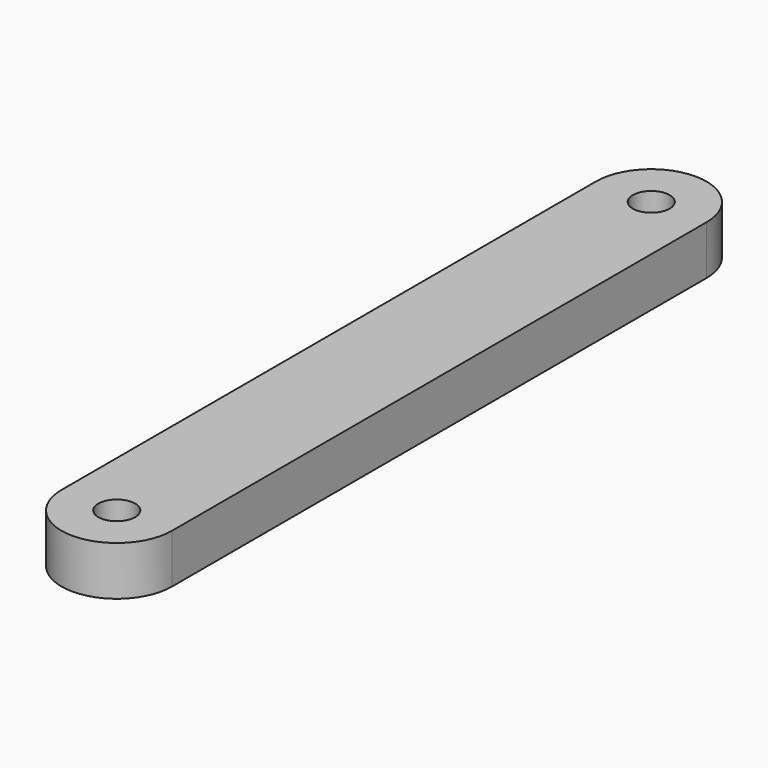
from build123d import *

# Parameters (mm, degrees)
SKETCH_R      = 1.5
PAD_DEPTH     = 4
SKETCH001_R   = 3
SKETCH001_R_2 = 1.5
POCKET_DEPTH  = 1.5


with BuildPart() as part:
    # Sketch → Pad (new body)
    with BuildSketch(Plane.XY):
        with BuildLine():
            ThreePointArc((4.5, 27.2), (0, 31.7), (-4.5, 27.2))
            Line((-4.5, -27.2), (-4.5, 27.2))
            ThreePointArc((-4.5, -27.2), (0, -31.7), (4.5, -27.2))
            Line((4.5, 27.2), (4.5, -27.2))
        make_face()
        with Locations((0, 27.2)):
            Circle(SKETCH_R, mode=Mode.SUBTRACT)
        with Locations((0, -27.2)):
            Circle(SKETCH_R, mode=Mode.SUBTRACT)
    extrude(amount=PAD_DEPTH)

    # Sketch001 → Pocket (cut, symmetric)
    with BuildSketch(Plane.XY):
        with Locations((0, -27.2)):
            Circle(SKETCH001_R)
        with Locations((0, -27.2)):
            Circle(SKETCH001_R_2, mode=Mode.SUBTRACT)
        with Locations((0, 27.2)):
            Circle(SKETCH001_R)
        with Locations((0, 27.2)):
            Circle(SKETCH001_R_2, mode=Mode.SUBTRACT)
    extrude(amount=POCKET_DEPTH, both=True, mode=Mode.SUBTRACT)


solid = part.part
